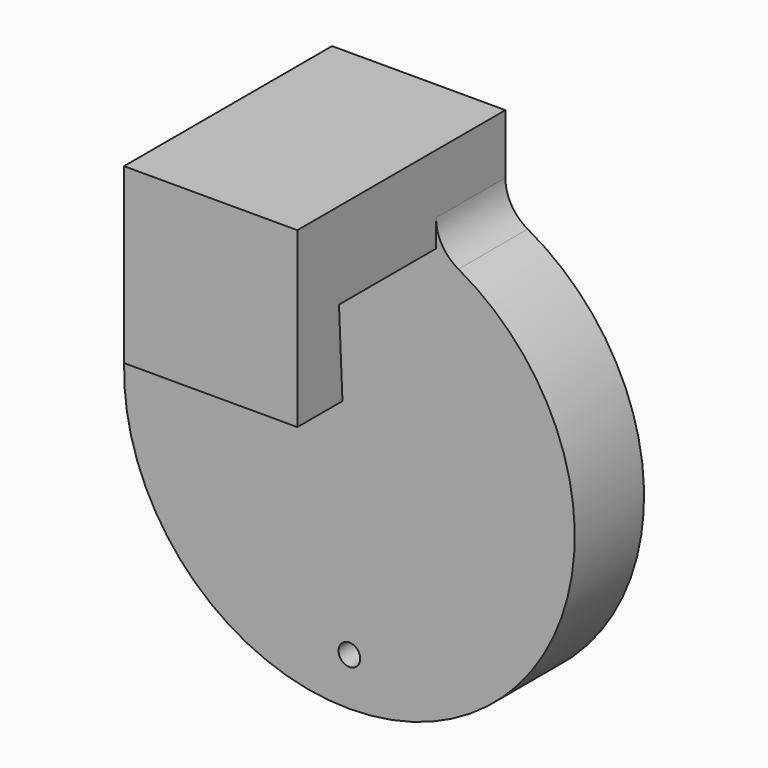
from build123d import *

# Parameters (mm, degrees)
F1_DEPTH = 10
F2_D     = 2.5
F3_W     = 20
F3_H     = 10
F4_DEPTH = 20
F6_DEPTH = 20
F7_R     = 5


with BuildPart() as f1:
    # F0 (on Front) → F1 (new body)
    with BuildSketch(Plane.XZ):
        with BuildLine():
            Line((-10, 34), (-10, 24))
            ThreePointArc((-10, 24), (0, -26), (10, 24))
            Line((10, 24), (10, 34))
            Line((10, 34), (-10, 34))
        make_face()
    extrude(amount=F1_DEPTH)

    # F2 (through all)
    with Locations(Plane(origin=(0, 0, 0), x_dir=(1, 0, 0), z_dir=(0, 1, 0))):
        with Locations((0, -20.5), (0, 20.5)):
            Hole(F2_D / 2)

    # F3 (on face) → F4 (join)
    with BuildSketch(Plane.XZ.offset(10)):
        with Locations((0, 29)):
            Rectangle(F3_W, F3_H)
    extrude(amount=F4_DEPTH)

    # F5 (on face) → F6 (join, through all)
    with BuildSketch(Plane(origin=(-10, 0, 0), x_dir=(0, -1, 0), z_dir=(-1, 0, 0))):
        Polygon((30, 14), (30, 24), (24, 24), (23.5, 14), align=None)
    extrude(amount=-F6_DEPTH)

    # F7
    f7_edges = [f1.edges().sort_by_distance(p)[0] for p in [
        (10, -5, 24),
        (-10, -5, 24),
    ]]
    fillet(f7_edges, radius=F7_R)


solid = f1.part
